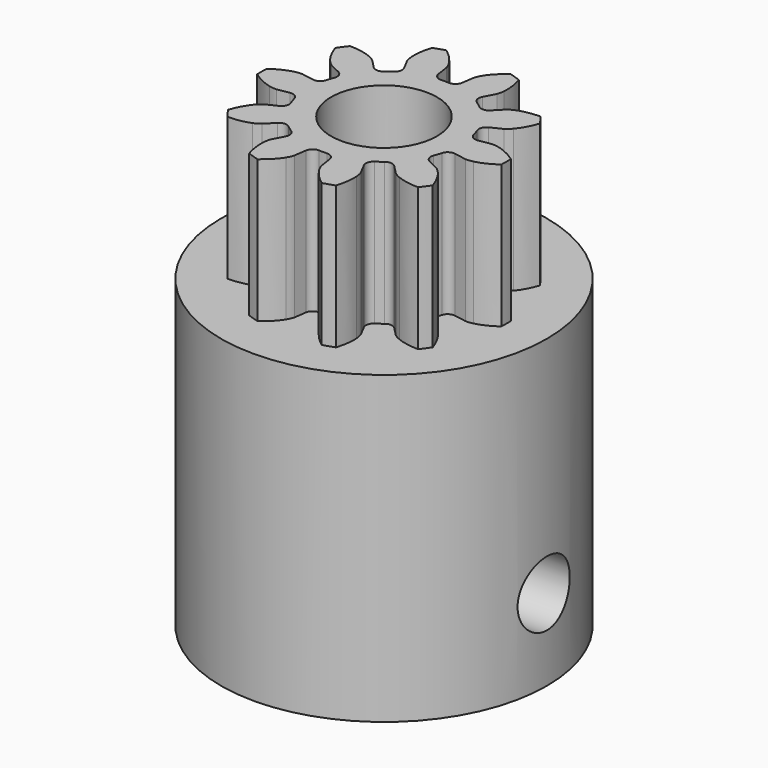
from build123d import *

# Parameters (mm, degrees)
PAD_DEPTH       = 7
SKETCH_R        = 8
PAD001_DEPTH    = 15
SKETCH002_R     = 2.6
POCKET_DEPTH    = 22.001
SKETCH001_R     = 1.6
POCKET001_DEPTH = 16.001
POCKET002_DEPTH = 4.5


with BuildPart() as part:
    # InvoluteGear → Pad (new body)
    with BuildSketch(Plane.XY):
        with BuildLine():
            Line((4.047316, -0.703019), (4.644656, -0.805895))
            add(Edge.make_bspline(
                [(4.644656, -0.805895), (4.684738, -0.809558), (4.804939, -0.814175), (5.008015, -0.767399)],
                knots=[0, 0, 0, 0, 1, 1, 1, 1], degree=3))
            add(Edge.make_bspline(
                [(5.008015, -0.767399), (5.249125, -0.710088), (5.590734, -0.580595), (5.994373, -0.293044)],
                knots=[0, 0, 0, 0, 1, 1, 1, 1], degree=3))
            ThreePointArc((5.994373, -0.293044), (6.001533, 0), (5.994373, 0.293044))
            add(Edge.make_bspline(
                [(5.994373, 0.293044), (5.590734, 0.580595), (5.249125, 0.710088), (5.008015, 0.767399)],
                knots=[0, 0, 0, 0, 1, 1, 1, 1], degree=3))
            add(Edge.make_bspline(
                [(5.008015, 0.767399), (4.804939, 0.814175), (4.684738, 0.809558), (4.644656, 0.805895)],
                knots=[0, 0, 0, 0, 1, 1, 1, 1], degree=3))
            Line((4.644656, 0.805895), (4.047316, 0.703019))
            ThreePointArc((4.047316, 0.703019), (3.782033, 0.75597), (3.621401, 0.97363))
            ThreePointArc((3.621401, 0.97363), (3.566462, 1.158814), (3.50206, 1.340923))
            ThreePointArc((3.50206, 1.340923), (3.504077, 1.611431), (3.687571, 1.810198))
            Line((3.687571, 1.810198), (4.231299, 2.078077))
            add(Edge.make_bspline(
                [(4.231299, 2.078077), (4.265879, 2.098674), (4.365837, 2.165591), (4.502635, 2.322799)],
                knots=[0, 0, 0, 0, 1, 1, 1, 1], degree=3))
            add(Edge.make_bspline(
                [(4.502635, 2.322799), (4.664011, 2.510885), (4.864264, 2.81644), (5.021796, 3.286326)],
                knots=[0, 0, 0, 0, 1, 1, 1, 1], degree=3))
            ThreePointArc((5.021796, 3.286326), (4.855342, 3.527613), (4.677303, 3.760481))
            add(Edge.make_bspline(
                [(4.677303, 3.760481), (4.181734, 3.755863), (3.829252, 3.659832), (3.600504, 3.564476)],
                knots=[0, 0, 0, 0, 1, 1, 1, 1], degree=3))
            add(Edge.make_bspline(
                [(3.600504, 3.564476), (3.408717, 3.482953), (3.314186, 3.408566), (3.283912, 3.382043)],
                knots=[0, 0, 0, 0, 1, 1, 1, 1], degree=3))
            Line((3.283912, 3.382043), (2.861123, 2.947707))
            ThreePointArc((2.861123, 2.947707), (2.615381, 2.834616), (2.357489, 2.916289))
            ThreePointArc((2.357489, 2.916289), (2.204195, 3.033814), (2.045052, 3.143289))
            ThreePointArc((2.045052, 3.143289), (1.887682, 3.36332), (1.9193, 3.631981))
            Line((1.9193, 3.631981), (2.201729, 4.168295))
            add(Edge.make_bspline(
                [(2.201729, 4.168295), (2.217599, 4.205283), (2.259134, 4.318175), (2.277402, 4.525766)],
                knots=[0, 0, 0, 0, 1, 1, 1, 1], degree=3))
            add(Edge.make_bspline(
                [(2.277402, 4.525766), (2.297403, 4.772785), (2.279811, 5.137691), (2.131064, 5.610432)],
                knots=[0, 0, 0, 0, 1, 1, 1, 1], degree=3))
            ThreePointArc((2.131064, 5.610432), (1.854576, 5.707797), (1.573662, 5.791543))
            add(Edge.make_bspline(
                [(1.573662, 5.791543), (1.175453, 5.496518), (0.946735, 5.211644), (0.817722, 5.000045)],
                knots=[0, 0, 0, 0, 1, 1, 1, 1], degree=3))
            add(Edge.make_bspline(
                [(0.817722, 5.000045), (0.710482, 4.821362), (0.677728, 4.705618), (0.668826, 4.666365)],
                knots=[0, 0, 0, 0, 1, 1, 1, 1], degree=3))
            Line((0.668826, 4.666365), (0.582079, 4.066471))
            ThreePointArc((0.582079, 4.066471), (0.449743, 3.830535), (0.193097, 3.745025))
            ThreePointArc((0.193097, 3.745025), (0, 3.75), (-0.193097, 3.745025))
            ThreePointArc((-0.193097, 3.745025), (-0.449743, 3.830535), (-0.582079, 4.066471))
            Line((-0.582079, 4.066471), (-0.668826, 4.666365))
            add(Edge.make_bspline(
                [(-0.668826, 4.666365), (-0.677728, 4.705618), (-0.710482, 4.821362), (-0.817722, 5.000045)],
                knots=[0, 0, 0, 0, 1, 1, 1, 1], degree=3))
            add(Edge.make_bspline(
                [(-0.817722, 5.000045), (-0.946735, 5.211644), (-1.175453, 5.496518), (-1.573662, 5.791543)],
                knots=[0, 0, 0, 0, 1, 1, 1, 1], degree=3))
            ThreePointArc((-1.573662, 5.791543), (-1.854576, 5.707797), (-2.131064, 5.610432))
            add(Edge.make_bspline(
                [(-2.131064, 5.610432), (-2.279811, 5.137691), (-2.297403, 4.772785), (-2.277402, 4.525766)],
                knots=[0, 0, 0, 0, 1, 1, 1, 1], degree=3))
            add(Edge.make_bspline(
                [(-2.277402, 4.525766), (-2.259134, 4.318175), (-2.217599, 4.205283), (-2.201729, 4.168295)],
                knots=[0, 0, 0, 0, 1, 1, 1, 1], degree=3))
            Line((-2.201729, 4.168295), (-1.9193, 3.631981))
            ThreePointArc((-1.9193, 3.631981), (-1.887682, 3.36332), (-2.045052, 3.143289))
            ThreePointArc((-2.045052, 3.143289), (-2.204195, 3.033814), (-2.357489, 2.916289))
            ThreePointArc((-2.357489, 2.916289), (-2.615381, 2.834616), (-2.861123, 2.947707))
            Line((-2.861123, 2.947707), (-3.283912, 3.382043))
            add(Edge.make_bspline(
                [(-3.283912, 3.382043), (-3.314186, 3.408566), (-3.408717, 3.482953), (-3.600504, 3.564476)],
                knots=[0, 0, 0, 0, 1, 1, 1, 1], degree=3))
            add(Edge.make_bspline(
                [(-3.600504, 3.564476), (-3.829252, 3.659832), (-4.181734, 3.755863), (-4.677303, 3.760481)],
                knots=[0, 0, 0, 0, 1, 1, 1, 1], degree=3))
            ThreePointArc((-4.677303, 3.760481), (-4.855342, 3.527613), (-5.021796, 3.286326))
            add(Edge.make_bspline(
                [(-5.021796, 3.286326), (-4.864264, 2.81644), (-4.664011, 2.510885), (-4.502635, 2.322799)],
                knots=[0, 0, 0, 0, 1, 1, 1, 1], degree=3))
            add(Edge.make_bspline(
                [(-4.502635, 2.322799), (-4.365837, 2.165591), (-4.265879, 2.098674), (-4.231299, 2.078077)],
                knots=[0, 0, 0, 0, 1, 1, 1, 1], degree=3))
            Line((-4.231299, 2.078077), (-3.687571, 1.810198))
            ThreePointArc((-3.687571, 1.810198), (-3.504077, 1.611431), (-3.50206, 1.340923))
            ThreePointArc((-3.50206, 1.340923), (-3.566462, 1.158814), (-3.621401, 0.97363))
            ThreePointArc((-3.621401, 0.97363), (-3.782033, 0.75597), (-4.047316, 0.703019))
            Line((-4.047316, 0.703019), (-4.644656, 0.805895))
            add(Edge.make_bspline(
                [(-4.644656, 0.805895), (-4.684738, 0.809558), (-4.804939, 0.814175), (-5.008015, 0.767399)],
                knots=[0, 0, 0, 0, 1, 1, 1, 1], degree=3))
            add(Edge.make_bspline(
                [(-5.008015, 0.767399), (-5.249125, 0.710088), (-5.590734, 0.580595), (-5.994373, 0.293044)],
                knots=[0, 0, 0, 0, 1, 1, 1, 1], degree=3))
            ThreePointArc((-5.994373, 0.293044), (-6.001533, 0), (-5.994373, -0.293044))
            add(Edge.make_bspline(
                [(-5.994373, -0.293044), (-5.590734, -0.580595), (-5.249125, -0.710088), (-5.008015, -0.767399)],
                knots=[0, 0, 0, 0, 1, 1, 1, 1], degree=3))
            add(Edge.make_bspline(
                [(-5.008015, -0.767399), (-4.804939, -0.814175), (-4.684738, -0.809558), (-4.644656, -0.805895)],
                knots=[0, 0, 0, 0, 1, 1, 1, 1], degree=3))
            Line((-4.644656, -0.805895), (-4.047316, -0.703019))
            ThreePointArc((-4.047316, -0.703019), (-3.782033, -0.75597), (-3.621401, -0.97363))
            ThreePointArc((-3.621401, -0.97363), (-3.566462, -1.158814), (-3.50206, -1.340923))
            ThreePointArc((-3.50206, -1.340923), (-3.504077, -1.611431), (-3.687571, -1.810198))
            Line((-3.687571, -1.810198), (-4.231299, -2.078077))
            add(Edge.make_bspline(
                [(-4.231299, -2.078077), (-4.265879, -2.098674), (-4.365837, -2.165591), (-4.502635, -2.322799)],
                knots=[0, 0, 0, 0, 1, 1, 1, 1], degree=3))
            add(Edge.make_bspline(
                [(-4.502635, -2.322799), (-4.664011, -2.510885), (-4.864264, -2.81644), (-5.021796, -3.286326)],
                knots=[0, 0, 0, 0, 1, 1, 1, 1], degree=3))
            ThreePointArc((-5.021796, -3.286326), (-4.855342, -3.527613), (-4.677303, -3.760481))
            add(Edge.make_bspline(
                [(-4.677303, -3.760481), (-4.181734, -3.755863), (-3.829252, -3.659832), (-3.600504, -3.564476)],
                knots=[0, 0, 0, 0, 1, 1, 1, 1], degree=3))
            add(Edge.make_bspline(
                [(-3.600504, -3.564476), (-3.408717, -3.482953), (-3.314186, -3.408566), (-3.283912, -3.382043)],
                knots=[0, 0, 0, 0, 1, 1, 1, 1], degree=3))
            Line((-3.283912, -3.382043), (-2.861123, -2.947707))
            ThreePointArc((-2.861123, -2.947707), (-2.615381, -2.834616), (-2.357489, -2.916289))
            ThreePointArc((-2.357489, -2.916289), (-2.204195, -3.033814), (-2.045052, -3.143289))
            ThreePointArc((-2.045052, -3.143289), (-1.887682, -3.36332), (-1.9193, -3.631981))
            Line((-1.9193, -3.631981), (-2.201729, -4.168295))
            add(Edge.make_bspline(
                [(-2.201729, -4.168295), (-2.217599, -4.205283), (-2.259134, -4.318175), (-2.277402, -4.525766)],
                knots=[0, 0, 0, 0, 1, 1, 1, 1], degree=3))
            add(Edge.make_bspline(
                [(-2.277402, -4.525766), (-2.297403, -4.772785), (-2.279811, -5.137691), (-2.131064, -5.610432)],
                knots=[0, 0, 0, 0, 1, 1, 1, 1], degree=3))
            ThreePointArc((-2.131064, -5.610432), (-1.854576, -5.707797), (-1.573662, -5.791543))
            add(Edge.make_bspline(
                [(-1.573662, -5.791543), (-1.175453, -5.496518), (-0.946735, -5.211644), (-0.817722, -5.000045)],
                knots=[0, 0, 0, 0, 1, 1, 1, 1], degree=3))
            add(Edge.make_bspline(
                [(-0.817722, -5.000045), (-0.710482, -4.821362), (-0.677728, -4.705618), (-0.668826, -4.666365)],
                knots=[0, 0, 0, 0, 1, 1, 1, 1], degree=3))
            Line((-0.668826, -4.666365), (-0.582079, -4.066471))
            ThreePointArc((-0.582079, -4.066471), (-0.449743, -3.830535), (-0.193097, -3.745025))
            ThreePointArc((-0.193097, -3.745025), (0, -3.75), (0.193097, -3.745025))
            ThreePointArc((0.193097, -3.745025), (0.449743, -3.830535), (0.582079, -4.066471))
            Line((0.582079, -4.066471), (0.668826, -4.666365))
            add(Edge.make_bspline(
                [(0.668826, -4.666365), (0.677728, -4.705618), (0.710482, -4.821362), (0.817722, -5.000045)],
                knots=[0, 0, 0, 0, 1, 1, 1, 1], degree=3))
            add(Edge.make_bspline(
                [(0.817722, -5.000045), (0.946735, -5.211644), (1.175453, -5.496518), (1.573662, -5.791543)],
                knots=[0, 0, 0, 0, 1, 1, 1, 1], degree=3))
            ThreePointArc((1.573662, -5.791543), (1.854576, -5.707797), (2.131064, -5.610432))
            add(Edge.make_bspline(
                [(2.131064, -5.610432), (2.279811, -5.137691), (2.297403, -4.772785), (2.277402, -4.525766)],
                knots=[0, 0, 0, 0, 1, 1, 1, 1], degree=3))
            add(Edge.make_bspline(
                [(2.277402, -4.525766), (2.259134, -4.318175), (2.217599, -4.205283), (2.201729, -4.168295)],
                knots=[0, 0, 0, 0, 1, 1, 1, 1], degree=3))
            Line((2.201729, -4.168295), (1.9193, -3.631981))
            ThreePointArc((1.9193, -3.631981), (1.887682, -3.36332), (2.045052, -3.143289))
            ThreePointArc((2.045052, -3.143289), (2.204195, -3.033814), (2.357489, -2.916289))
            ThreePointArc((2.357489, -2.916289), (2.615381, -2.834616), (2.861123, -2.947707))
            Line((2.861123, -2.947707), (3.283912, -3.382043))
            add(Edge.make_bspline(
                [(3.283912, -3.382043), (3.314186, -3.408566), (3.408717, -3.482953), (3.600504, -3.564476)],
                knots=[0, 0, 0, 0, 1, 1, 1, 1], degree=3))
            add(Edge.make_bspline(
                [(3.600504, -3.564476), (3.829252, -3.659832), (4.181734, -3.755863), (4.677303, -3.760481)],
                knots=[0, 0, 0, 0, 1, 1, 1, 1], degree=3))
            ThreePointArc((4.677303, -3.760481), (4.855342, -3.527613), (5.021796, -3.286326))
            add(Edge.make_bspline(
                [(5.021796, -3.286326), (4.864264, -2.81644), (4.664011, -2.510885), (4.502635, -2.322799)],
                knots=[0, 0, 0, 0, 1, 1, 1, 1], degree=3))
            add(Edge.make_bspline(
                [(4.502635, -2.322799), (4.365837, -2.165591), (4.265879, -2.098674), (4.231299, -2.078077)],
                knots=[0, 0, 0, 0, 1, 1, 1, 1], degree=3))
            Line((4.231299, -2.078077), (3.687571, -1.810198))
            ThreePointArc((3.687571, -1.810198), (3.504077, -1.611431), (3.50206, -1.340923))
            ThreePointArc((3.50206, -1.340923), (3.566462, -1.158814), (3.621401, -0.97363))
            ThreePointArc((3.621401, -0.97363), (3.782033, -0.75597), (4.047316, -0.703019))
        make_face()
    extrude(amount=PAD_DEPTH)

    # Sketch → Pad001 (join)
    with BuildSketch(Plane.XY):
        Circle(SKETCH_R)
    extrude(amount=-PAD001_DEPTH)

    # Sketch002 (on DatumPlane) → Pocket (cut, through all)
    with BuildSketch(Plane(origin=(0, 0, -15), x_dir=(1, 0, 0), z_dir=(0, 0, -1))):
        Circle(SKETCH002_R)
    extrude(amount=-POCKET_DEPTH, mode=Mode.SUBTRACT)

    # Sketch001 (on DatumPlane) → Pocket001 (cut, through all)
    with BuildSketch(Plane(origin=(8, 0, -15), x_dir=(0, -1, 0), z_dir=(1, 0, 0))):
        with Locations((0, -4)):
            Circle(SKETCH001_R)
    extrude(amount=-POCKET001_DEPTH, mode=Mode.SUBTRACT)

    # Sketch003 → Pocket002 (cut, symmetric)
    with BuildSketch(Plane.YZ):
        Polygon((3, -12.732051), (3, -9.267949), (0, -7.535898), (-3, -9.267949), (-3, -12.732051), (-3, -22.732051), (3, -22.732051), align=None)
    extrude(amount=POCKET002_DEPTH, both=True, mode=Mode.SUBTRACT)


solid = part.part
